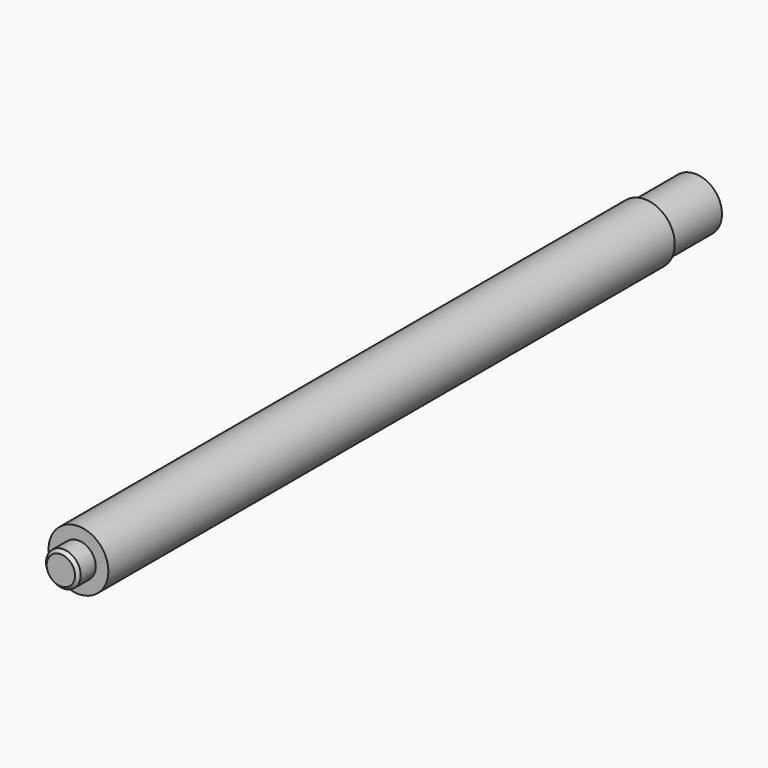
from build123d import *

# Parameters (mm, degrees)
F0_R     = 9.5
F1_DEPTH = 225
F2_R     = 5.5
F3_DEPTH = 7
F4_SIZE  = 1
F5_R     = 8.5
F6_DEPTH = 20


with BuildPart() as f1:
    # F0 (on Front) → F1 (new body)
    with BuildSketch(Plane.XZ):
        Circle(F0_R)
    extrude(amount=F1_DEPTH)

    # F2 (on face) → F3 (join)
    with BuildSketch(Plane.XZ.offset(225)):
        Circle(F2_R)
    extrude(amount=F3_DEPTH)

    # F4
    f4_edges = [f1.edges().sort_by_distance(p)[0] for p in [
        (-5.5, -232, 0),
    ]]
    chamfer(f4_edges, length=F4_SIZE)

    # F5 (on face) → F6 (join)
    with BuildSketch(Plane(origin=(0, 0, 0), x_dir=(-1, 0, 0), z_dir=(0, 1, 0))):
        Circle(F5_R)
    extrude(amount=F6_DEPTH)

    # F7 (on Top) → F8 (revolve)
    with BuildSketch(Plane.XY):
        with BuildLine():
            Line((-8.5, 20), (0, 20))
            Line((0, 20), (0, 22))
            ThreePointArc((0, 22), (-4.366062, 21.493265), (-8.5, 20))
        make_face()
    revolve(axis=Axis((0, 10, 0), (0, -1, 0)))


solid = f1.part
